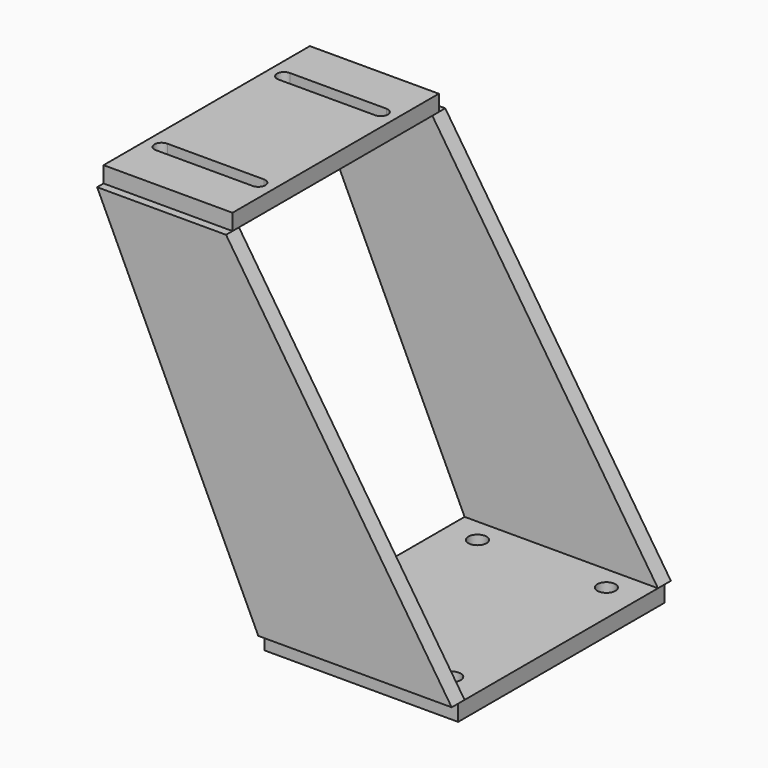
from build123d import *

# Parameters (mm, degrees)
F0_W     = 152.4
F0_H     = 203.2
F0_R     = 7.14375
F1_DEPTH = 12.7
F3_W     = 101.6
F3_H     = 203.2
F4_DEPTH = 12.7
F6_DEPTH = 6.35


with BuildPart() as f1:
    # F0 (on Top) → F1 (new body)
    with BuildSketch(Plane.XY):
        Rectangle(F0_W, F0_H)
        with Locations((-50.8, -76.2)):
            Circle(F0_R, mode=Mode.SUBTRACT)
        with Locations((50.8, -76.2)):
            Circle(F0_R, mode=Mode.SUBTRACT)
        with Locations((-50.8, 76.2)):
            Circle(F0_R, mode=Mode.SUBTRACT)
        with Locations((50.8, 76.2)):
            Circle(F0_R, mode=Mode.SUBTRACT)
    extrude(amount=F1_DEPTH)



with BuildPart() as f4:
    # F3 (on offset) → F4 (new body)
    with BuildSketch(Plane(origin=(0, 0, 295.402), x_dir=(1, 0, 0), z_dir=(0, 0, -1))):
        with Locations((-152.4, 0)):
            Rectangle(F3_W, F3_H)
        with BuildLine():
            ThreePointArc((-114.3, -54.737), (-108.712, -60.325), (-114.3, -65.913))
            Line((-114.3, -65.913), (-190.5, -65.913))
            ThreePointArc((-190.5, -65.913), (-196.088, -60.325), (-190.5, -54.737))
            Line((-190.5, -54.737), (-114.3, -54.737))
        make_face(mode=Mode.SUBTRACT)
        with BuildLine():
            Line((-114.3, 54.737), (-190.5, 54.737))
            ThreePointArc((-190.5, 54.737), (-196.088, 60.325), (-190.5, 65.913))
            Line((-190.5, 65.913), (-114.3, 65.913))
            ThreePointArc((-114.3, 65.913), (-108.712, 60.325), (-114.3, 54.737))
        make_face(mode=Mode.SUBTRACT)
    extrude(amount=F4_DEPTH)


with BuildPart() as f1_1:
    add(f1.part)

    add(f4.part)  # F6 merges F4
    # F5 (on face) → F6 (join, symmetric)
    with BuildSketch(Plane(origin=(0, 101.6, 0), x_dir=(-1, 0, 0), z_dir=(0, 1, 0))):
        Polygon((-76.2, 12.7), (76.2, 12.7), (203.2, 282.702), (101.6, 282.702), align=None)
    extrude(amount=F6_DEPTH, both=True)

    # F7: F1 across plane


with BuildPart() as f1_2:
    add(f1_1.part)
    add(f1_1.part.mirror(Plane.XZ))


solid = f1_2.part
